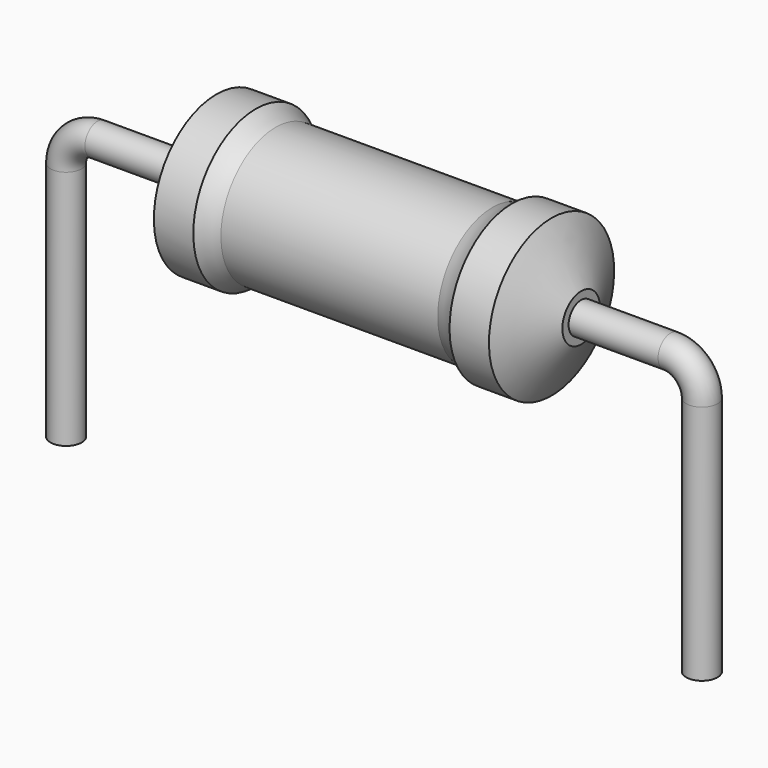
from build123d import *

# Parameters (mm, degrees)
SKETCH_R = 0.25


with BuildPart() as revolution:
    # Sketch002 → Revolution (revolve)
    with BuildSketch(Plane.XZ):
        with BuildLine():
            Line((2.4025, 2.6), (3.0325, 2.6))
            ThreePointArc((3.0325, 2.6), (3.183482, 2.508215), (3.3475, 2.4425))
            Line((3.3475, 2.4425), (6.8125, 2.4425))
            ThreePointArc((6.8125, 2.4425), (6.976518, 2.508215), (7.1275, 2.6))
            Line((7.1275, 2.6), (7.7575, 2.6))
            ThreePointArc((8.23, 1.725), (7.994594, 2.162956), (7.7575, 2.6))
            Line((8.23, 1.35), (8.23, 1.725))
            Line((1.93, 1.35), (8.23, 1.35))
            Line((1.93, 1.35), (1.93, 1.725))
            ThreePointArc((2.4025, 2.6), (2.165406, 2.162956), (1.93, 1.725))
        make_face()
    revolve(axis=Axis((1.93, 0, 1.35), (1, 0, 0)))


with BuildPart() as sweep_body:
    # Sweep: sweep along a path in Sketch001
    with BuildLine(Plane.XZ) as sweep_path:
        Line((0, -3), (0, 0.85))
        ThreePointArc((0, 0.85), (0.146445, 1.203551), (0.499994, 1.35))
        Line((0.499994, 1.35), (9.66, 1.35))
        ThreePointArc((9.66, 1.35), (10.013553, 1.203553), (10.16, 0.85))
        Line((10.16, 0.85), (10.16, -3))
    # Sketch → Sweep (sweep)
    with BuildSketch(Plane.XY.offset(-2)):
        Circle(SKETCH_R)
    sweep(path=sweep_path.line)


solid = Compound([revolution.part, sweep_body.part])
